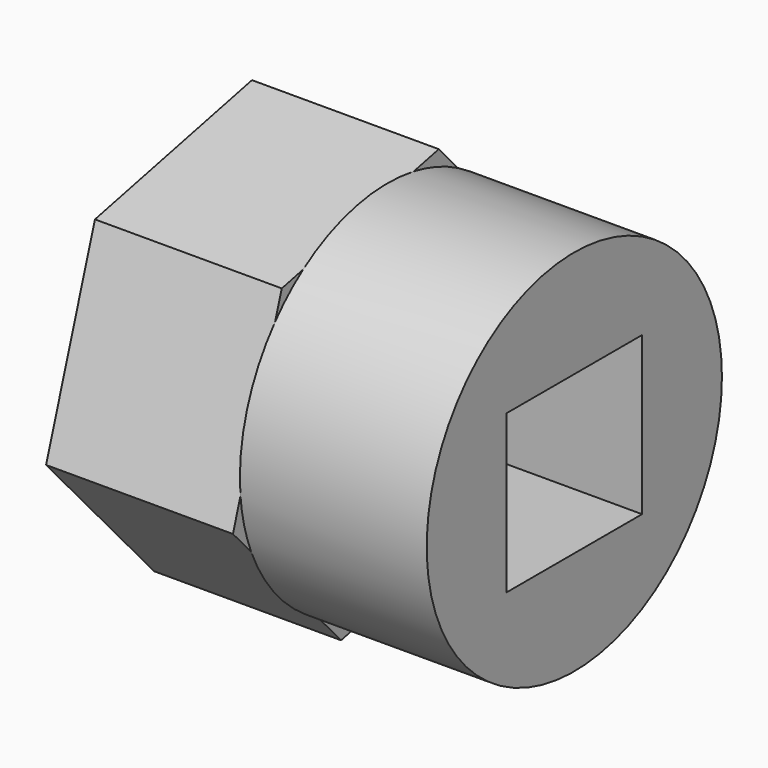
from build123d import *

# Parameters (mm, degrees)
F0_R     = 25.080946
F0_W     = 23.021214
F0_H     = 21.441326
F1_DEPTH = 25.4
F2_R     = 14.68991
F3_DEPTH = 25.4


with BuildPart() as f1:
    # F0 (on Right) → F1 (new body)
    with BuildSketch(Plane.YZ):
        Circle(F0_R)
        with Locations((1e-06, -0.225698)):
            Rectangle(F0_W, F0_H, mode=Mode.SUBTRACT)
    extrude(amount=F1_DEPTH)

    # F2 (on Right) → F3 (join)
    with BuildSketch(Plane.YZ):
        Polygon((8.720312, 25.612339), (-17.961322, 19.795203), (-26.264351, -6.220339), (-7.885746, -26.418744), (18.795888, -20.601607), (27.098918, 5.413934), align=None)
        Circle(F2_R, mode=Mode.SUBTRACT)
    extrude(amount=-F3_DEPTH)


solid = f1.part
